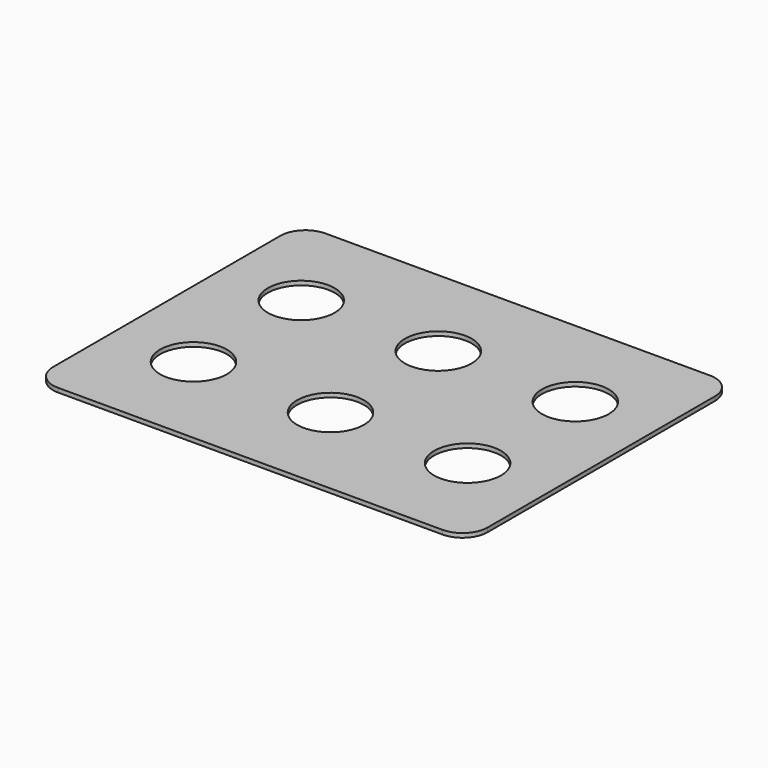
from build123d import *

# Parameters (mm, degrees)
F0_R     = 25.4
F1_DEPTH = 3.175


with BuildPart() as f1:
    # F0 (on Top) → F1 (new body)
    with BuildSketch(Plane.XY):
        with BuildLine():
            ThreePointArc((165.1, 107.95), (159.520384, 121.420384), (146.05, 127))
            Line((146.05, 127), (-146.05, 127))
            ThreePointArc((-146.05, 127), (-159.520384, 121.420384), (-165.1, 107.95))
            Line((-165.1, 107.95), (-165.1, -107.95))
            ThreePointArc((-165.1, -107.95), (-159.520384, -121.420384), (-146.05, -127))
            Line((-146.05, -127), (146.05, -127))
            ThreePointArc((146.05, -127), (159.520384, -121.420384), (165.1, -107.95))
            Line((165.1, -107.95), (165.1, 107.95))
        make_face()
        with Locations((-104.14, -50.8)):
            Circle(F0_R, mode=Mode.SUBTRACT)
        with Locations((0, -50.8)):
            Circle(F0_R, mode=Mode.SUBTRACT)
        with Locations((104.14, -50.8)):
            Circle(F0_R, mode=Mode.SUBTRACT)
        with Locations((-103.525929, 50.8)):
            Circle(F0_R, mode=Mode.SUBTRACT)
        with Locations((0.614071, 50.8)):
            Circle(F0_R, mode=Mode.SUBTRACT)
        with Locations((104.754071, 50.8)):
            Circle(F0_R, mode=Mode.SUBTRACT)
    extrude(amount=F1_DEPTH)


solid = f1.part
